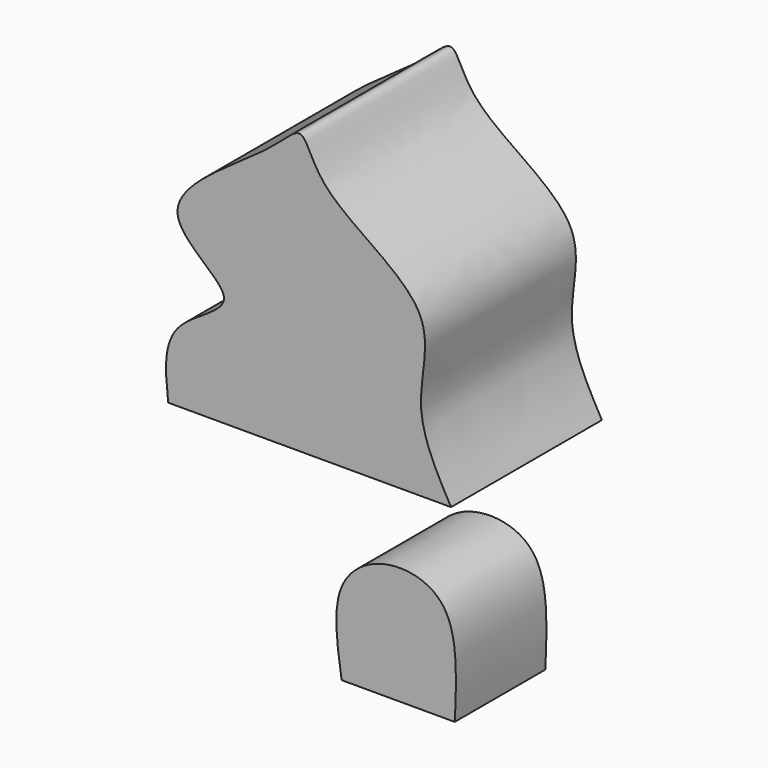
from build123d import *

# Parameters (mm, degrees)
F1_DEPTH = 25.4
F3_DEPTH = 15.24


with BuildPart() as f1:
    # F0 (on Front) → F1 (new body)
    with BuildSketch(Plane.XZ):
        with BuildLine():
            add(Edge.make_bspline(
                [(-21.1931248169, 7.7429031953), (-21.574487178, 11.2225694322), (-22.3104660727, 17.9378648387), (-8.8229613818, 22.302542541), (-26.7107251586, 30.9086701813), (-7.6091075029, 41.2077486378), (-2.9074087672, 47.3798788808), (-1.105413709, 38.5541722516), (16.2843972656, 30.9992597888), (11.0906639893, 18.1647892261), (14.9511382206, 11.2473267883), (16.9068751831, 7.7429031953)],
                knots=[0, 0, 0, 0, 0.1070493104, 0.2065910042, 0.3160018765, 0.4575352924, 0.5408101479, 0.6257191032, 0.7674235865, 0.8821755408, 1, 1, 1, 1], degree=3))
            Line((-21.1931248169, 7.7429031953), (16.9068751831, 7.7429031953))
        make_face()
    extrude(amount=F1_DEPTH)


with BuildPart() as f3:
    # F2 (on Front) → F3 (new body)
    with BuildSketch(Plane.XZ):
        with BuildLine():
            add(Edge.make_bspline(
                [(-5.9608064581, -24.3348386139), (-6.5770137839, -20.27219219), (-7.7018010988, -12.8564848924), (-0.3398995573, -7.5018471164), (9.9775709176, -9.5911596157), (9.5320554161, -18.9965867834), (9.2791935419, -24.3348386139)],
                knots=[0, 0, 0, 0, 0.2647851544, 0.4833226909, 0.7067487162, 1, 1, 1, 1], degree=3))
            Line((-5.9608064581, -24.3348386139), (9.2791935419, -24.3348386139))
        make_face()
    extrude(amount=F3_DEPTH)


solid = Compound([f1.part, f3.part])
